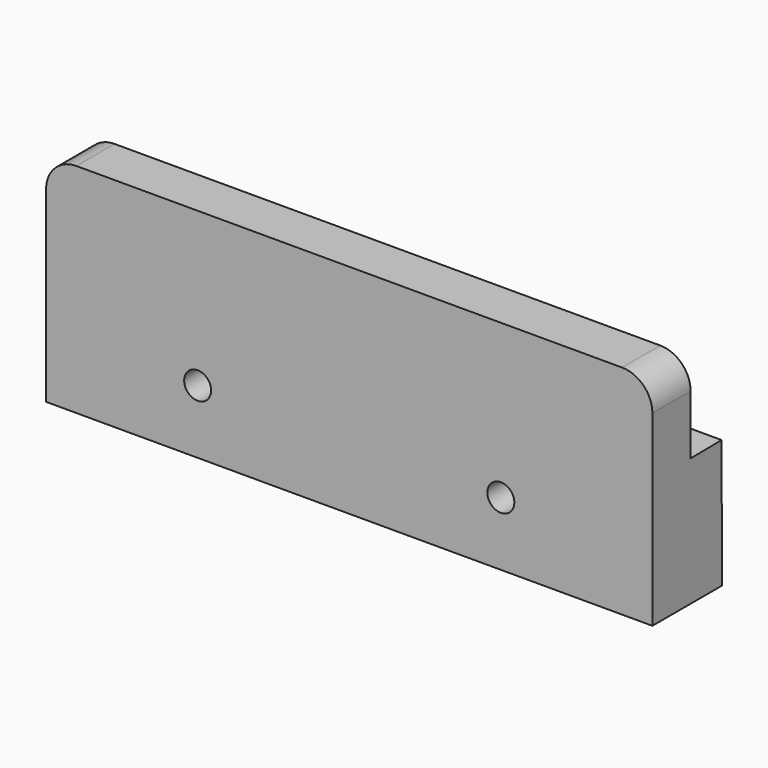
from build123d import *

# Parameters (mm, degrees)
F1_DEPTH = 50.8
F3_D     = 2.2606
F4_R     = 2.54
F5_R     = 2.54


with BuildPart() as f1:
    # F0 (on Right) → F1 (new body)
    with BuildSketch(Plane.YZ):
        Polygon((-2.3067509514, -0.331221791), (-2.3067509514, 7.168778209), (-6.3067509514, 7.168778209), (-6.3067509514, -11.055721791), (0.9745705689, -11.055721791), (0.9431016669, -0.3002708691), align=None)
    extrude(amount=F1_DEPTH)

    # F3 (through all)
    with Locations(Plane.XZ.offset(6.3067509514)):
        with Locations((12.7, -5.721721791), (38.1, -5.721721791)):
            Hole(F3_D / 2)

    # F4
    f4_edges = [f1.edges().sort_by_distance(p)[0] for p in [
        (50.8, -4.306751, 7.168778),
    ]]
    fillet(f4_edges, radius=F4_R)

    # F5
    f5_edges = [f1.edges().sort_by_distance(p)[0] for p in [
        (0, -4.306751, 7.168778),
    ]]
    fillet(f5_edges, radius=F5_R)


solid = f1.part
